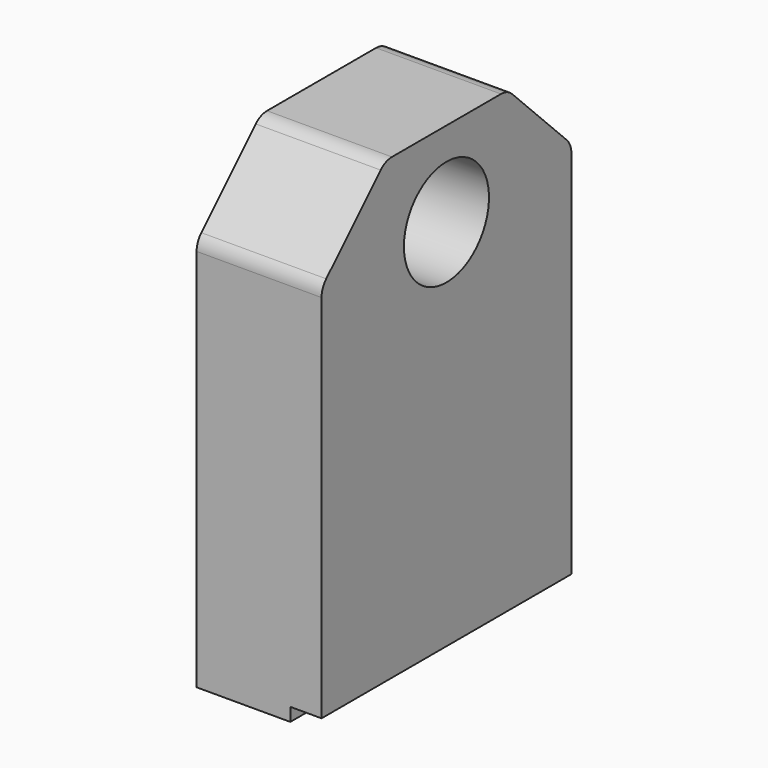
from build123d import *

# Parameters (mm, degrees)
SKETCH012_W     = 18.8
SKETCH012_H     = 47
PAD008_DEPTH    = 69
SKETCH036_W     = 14.1
SKETCH036_H     = 47
PAD016_DEPTH    = 2
SKETCH054_R     = 8
POCKET021_DEPTH = 18.801
SKETCH055_R     = 11
POCKET022_DEPTH = 7
CHAMFER001_SIZE = 12
SKETCH073_R     = 1.5
POCKET028_DEPTH = 19.2
FILLET003_R     = 3


with BuildPart() as part:
    # Sketch012 (on Face1 of ReferencePad001) → Pad008 (new body)
    with BuildSketch(Plane.XY.offset(18.8)):
        with Locations((-65.6, 0)):
            Rectangle(SKETCH012_W, SKETCH012_H)
    extrude(amount=PAD008_DEPTH)

    # Sketch036 (on Face5 of Pad008) → Pad016 (join)
    with BuildSketch(Plane(origin=(0, 0, 18.8), x_dir=(1, 0, 0), z_dir=(0, 0, -1))):
        with Locations((-67.95, 0)):
            Rectangle(SKETCH036_W, SKETCH036_H)
    extrude(amount=PAD016_DEPTH)

    # Sketch054 (on Face5 of Pad016) → Pocket021 (cut, through all)
    with BuildSketch(Plane(origin=(-75, 0, 18.8), x_dir=(0, -1, 0), z_dir=(-1, 0, 0))):
        with Locations((0, 56.2)):
            Circle(SKETCH054_R)
    extrude(amount=-POCKET021_DEPTH, mode=Mode.SUBTRACT)

    # Sketch055 (on Face5 of Pocket021) → Pocket022 (cut)
    with BuildSketch(Plane(origin=(-75, 0, 18.8), x_dir=(0, -1, 0), z_dir=(-1, 0, 0))):
        with Locations((0, 56.2)):
            Circle(SKETCH055_R)
    extrude(amount=-POCKET022_DEPTH, mode=Mode.SUBTRACT)

    # Chamfer001
    chamfer001_edges = [part.edges().sort_by_distance(p)[0] for p in [
        (-65.6, -23.5, 87.8),
        (-65.6, 23.5, 87.8),
    ]]
    chamfer(chamfer001_edges, length=CHAMFER001_SIZE)

    # Sketch073 (on Face16 of Chamfer001) → Pocket028 (cut)
    with BuildSketch(Plane(origin=(0, 0, 16.8), x_dir=(1, 0, 0), z_dir=(0, 0, -1))):
        with Locations((-65.6, 11.75)):
            Circle(SKETCH073_R)
        with Locations((-65.6, -11.75)):
            Circle(SKETCH073_R)
    extrude(amount=-POCKET028_DEPTH, mode=Mode.SUBTRACT)

    # Fillet003
    fillet003_edges = [part.edges().sort_by_distance(p)[0] for p in [
        (-65.6, 23.5, 75.8),
        (-65.6, 11.5, 87.8),
        (-65.6, -11.5, 87.8),
        (-65.6, -23.5, 75.8),
    ]]
    fillet(fillet003_edges, radius=FILLET003_R)


solid = part.part
